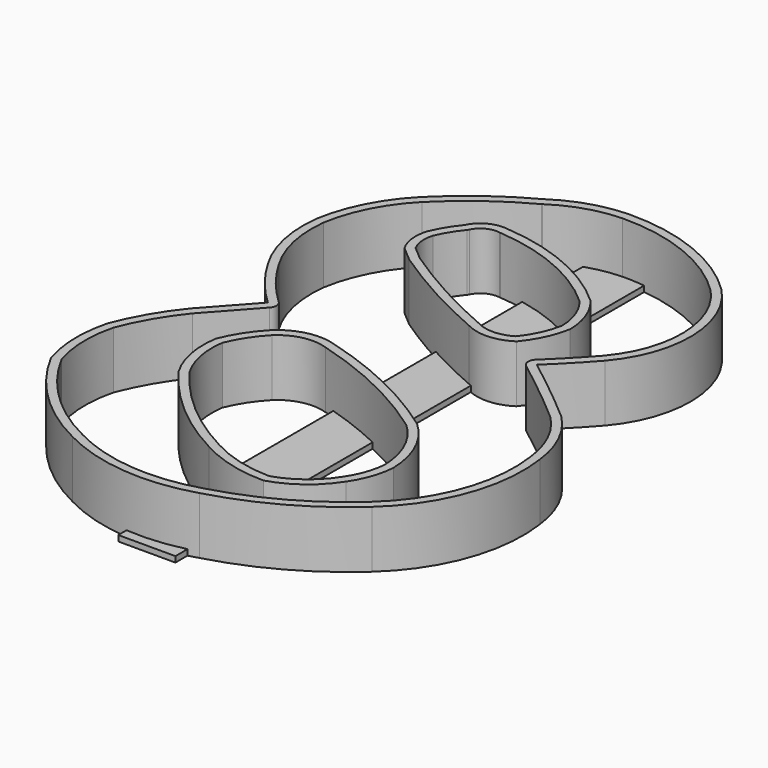
from build123d import *

# Parameters (mm, degrees)
BOX_W         = 10
BOX_H         = 106
BOX_DEPTH     = 1
EXTRUDE_DEPTH = 10


with BuildPart() as cube:
    # Box → Box (new body)
    with BuildSketch(Plane(origin=(-6, -53, 0), x_dir=(1, 0, 0), z_dir=(0, 0, 1))):
        with Locations((5, 53)):
            Rectangle(BOX_W, BOX_H)
    extrude(amount=BOX_DEPTH)


with BuildPart() as fusion:
    # Offset2D → Extrude (new body)
    with BuildSketch(Plane(origin=(-0.426228, -0.837563, 0), x_dir=(0, 1, 0), z_dir=(0, 0, 1))):
        with BuildLine():
            ThreePointArc((42.503525, -24.276272), (49.68176, -13.31089), (52.080118, -0.426228))
            ThreePointArc((52.080118, -0.426228), (51.015355, 5.810333), (48.264258, 11.507689))
            ThreePointArc((48.264258, 11.507689), (43.784533, 18.605601), (38.309512, 24.967395))
            ThreePointArc((38.309512, 24.967395), (31.855149, 29.634938), (24.288431, 32.122818))
            ThreePointArc((24.288431, 32.122818), (16.786489, 31.750925), (9.812264, 28.962088))
            ThreePointArc((9.812264, 28.962088), (5.058836, 25.712847), (0.837563, 21.797045))
            ThreePointArc((0.837563, 21.797045), (-3.138279, 25.368097), (-7.109626, 28.944146))
            ThreePointArc((-7.109626, 28.944146), (-12.158639, 32.433141), (-17.702089, 35.066729))
            ThreePointArc((-17.702089, 35.066729), (-24.054754, 35.79826), (-30.365509, 34.765847))
            ThreePointArc((-30.365509, 34.765847), (-39.957434, 27.594753), (-46.857377, 17.805962))
            ThreePointArc((-46.857377, 17.805962), (-50.317164, 6.059483), (-49.039004, -6.11903))
            ThreePointArc((-49.039004, -6.11903), (-44.500868, -17.280695), (-37.495914, -27.084166))
            ThreePointArc((-37.495914, -27.084166), (-25.986015, -34.811524), (-12.196241, -36.236991))
            ThreePointArc((-12.196241, -36.236991), (-5.835332, -34.400867), (-0.433382, -30.573144))
            ThreePointArc((-0.433382, -30.573144), (4.594591, -24.567416), (9.422656, -18.399834))
            ThreePointArc((9.422656, -18.399834), (12.730523, -21.735725), (16.175134, -24.930222))
            ThreePointArc((16.175134, -24.930222), (29.464589, -29.646272), (42.503525, -24.276272))
        make_face()
        with BuildLine():
            ThreePointArc((50.580413, -0.458151), (48.292873, -12.744264), (41.45398, -23.204232))
            ThreePointArc((41.45398, -23.204232), (29.420995, -28.146891), (17.160495, -23.799162))
            ThreePointArc((17.160495, -23.799162), (13.767835, -20.652193), (10.509658, -17.366187))
            ThreePointArc((10.509658, -17.366187), (9.338332, -16.902206), (8.226493, -17.49474))
            ThreePointArc((8.226493, -17.49474), (3.446379, -23.60181), (-1.530981, -29.549219))
            ThreePointArc((-1.530981, -29.549219), (-6.510376, -33.061053), (-12.365823, -34.746608))
            ThreePointArc((-12.365823, -34.746608), (-12.386537, -34.749111), (-12.407214, -34.751901))
            ThreePointArc((-12.407214, -34.751901), (-25.475718, -33.400993), (-36.383595, -26.077812))
            ThreePointArc((-36.383595, -26.077812), (-36.384661, -26.076636), (-36.385727, -26.075461))
            ThreePointArc((-36.385727, -26.075461), (-43.186869, -16.557226), (-47.592966, -5.720316))
            ThreePointArc((-47.592966, -5.720316), (-47.599325, -5.69793), (-47.606032, -5.675645))
            ThreePointArc((-47.606032, -5.675645), (-48.823362, 5.923269), (-45.528232, 17.11071))
            ThreePointArc((-45.528232, 17.11071), (-45.519523, 17.12762), (-45.511029, 17.144638))
            ThreePointArc((-45.511029, 17.144638), (-38.930567, 26.499036), (-29.789964, 33.373381))
            ThreePointArc((-29.789964, 33.373381), (-23.99136, 34.299325), (-18.157006, 33.634866))
            ThreePointArc((-18.157006, 33.634866), (-12.888907, 31.122689), (-8.086797, 27.805513))
            ThreePointArc((-8.086797, 27.805513), (-4.127663, 24.240509), (-0.164064, 20.680469))
            ThreePointArc((-0.164064, 20.680469), (0.905659, 20.298592), (1.936336, 20.77592))
            ThreePointArc((1.936336, 20.77592), (5.994706, 24.540606), (10.564694, 27.664456))
            ThreePointArc((10.564694, 27.664456), (10.577868, 27.672185), (10.590962, 27.680047))
            ThreePointArc((10.590962, 27.680047), (17.089081, 30.281647), (24.079619, 30.636968))
            ThreePointArc((24.079619, 30.636968), (31.187217, 28.29176), (37.251055, 23.904526))
            ThreePointArc((37.251055, 23.904526), (42.579895, 17.711815), (46.940184, 10.802829))
            ThreePointArc((46.940184, 10.802829), (46.977469, 10.736863), (47.018038, 10.672863))
            ThreePointArc((47.018038, 10.672863), (49.584915, 5.358808), (50.580413, -0.458151))
        make_face(mode=Mode.SUBTRACT)
        with BuildLine():
            ThreePointArc((35.552622, 15.131092), (33.338518, 16.701666), (30.923044, 17.940394))
            ThreePointArc((30.923044, 17.940394), (27.946256, 18.236801), (25.105466, 17.299229))
            ThreePointArc((25.105466, 17.299229), (23.967442, 15.978028), (22.837721, 14.649721))
            ThreePointArc((22.837721, 14.649721), (17.31029, 5.569336), (12.663486, -3.991684))
            ThreePointArc((12.663486, -3.991684), (11.790559, -8.016187), (13.080744, -11.926946))
            ThreePointArc((13.080744, -11.926946), (16.552966, -14.14054), (20.476526, -15.390342))
            ThreePointArc((20.476526, -15.390342), (24.918231, -14.563002), (28.821685, -12.287857))
            ThreePointArc((28.821685, -12.287857), (35.396432, -2.057673), (38.294161, 9.752794))
            ThreePointArc((38.294161, 9.752794), (37.823131, 12.900577), (35.552622, 15.131092))
        make_face()
        with BuildLine():
            ThreePointArc((30.40309, 16.531325), (32.591653, 15.400263), (34.599518, 13.972822))
            ThreePointArc((34.599518, 13.972822), (34.741804, 13.86912), (34.895262, 13.782805))
            ThreePointArc((34.895262, 13.782805), (36.486738, 12.219363), (36.816899, 10.012976))
            ThreePointArc((36.816899, 10.012976), (36.80583, 9.939531), (36.798411, 9.865628))
            ThreePointArc((36.798411, 9.865628), (34.038666, -1.417946), (27.779717, -11.203691))
            ThreePointArc((27.779717, -11.203691), (24.416076, -13.149361), (20.601053, -13.887812))
            ThreePointArc((20.601053, -13.887812), (17.225415, -12.799054), (14.217244, -10.919895))
            ThreePointArc((14.217244, -10.919895), (13.283803, -7.831341), (13.99417, -4.683985))
            ThreePointArc((13.99417, -4.683985), (14.019039, -4.633927), (14.042025, -4.582977))
            ThreePointArc((14.042025, -4.582977), (18.607638, 4.815324), (24.035661, 13.743338))
            ThreePointArc((24.035661, 13.743338), (25.047691, 14.93331), (26.066422, 16.11755))
            ThreePointArc((26.066422, 16.11755), (28.193734, 16.754377), (30.40309, 16.531325))
        make_face(mode=Mode.SUBTRACT)
        with BuildLine():
            ThreePointArc((-5.304279, 16.390724), (-8.42234, 18.854547), (-11.956744, 20.671333))
            ThreePointArc((-11.956744, 20.671333), (-17.494369, 20.574952), (-22.66759, 18.596983))
            ThreePointArc((-22.66759, 18.596983), (-31.070315, 10.860543), (-37.498867, 1.41957))
            ThreePointArc((-37.498867, 1.41957), (-39.844627, -4.40289), (-40.673419, -10.625168))
            ThreePointArc((-40.673419, -10.625168), (-38.087415, -15.735136), (-33.892074, -19.633635))
            ThreePointArc((-33.892074, -19.633635), (-30.444372, -21.380497), (-26.661131, -22.171232))
            ThreePointArc((-26.661131, -22.171232), (-19.969831, -20.610018), (-14.438078, -16.534407))
            ThreePointArc((-14.438078, -16.534407), (-7.758227, -5.295928), (-3.155024, 6.94067))
            ThreePointArc((-3.155024, 6.94067), (-2.90689, 11.966537), (-5.304279, 16.390724))
        make_face()
        with BuildLine():
            ThreePointArc((-12.354501, 19.214576), (-9.175054, 17.555033), (-6.363544, 15.328291))
            ThreePointArc((-6.363544, 15.328291), (-4.366665, 11.621196), (-4.577792, 7.415782))
            ThreePointArc((-4.577792, 7.415782), (-4.589381, 7.379554), (-4.600048, 7.343045))
            ThreePointArc((-4.600048, 7.343045), (-9.092234, -4.608778), (-15.606542, -15.590107))
            ThreePointArc((-15.606542, -15.590107), (-20.599769, -19.248702), (-26.624616, -20.669563))
            ThreePointArc((-26.624616, -20.669563), (-29.983258, -19.952576), (-33.044569, -18.396002))
            ThreePointArc((-33.044569, -18.396002), (-33.062278, -18.38406), (-33.080155, -18.372371))
            ThreePointArc((-33.080155, -18.372371), (-36.821301, -14.922254), (-39.17073, -10.407872))
            ThreePointArc((-39.17073, -10.407872), (-38.364838, -4.675009), (-36.188487, 0.689566))
            ThreePointArc((-36.188487, 0.689566), (-36.179503, 0.705932), (-36.170723, 0.722409))
            ThreePointArc((-36.170723, 0.722409), (-29.95755, 9.85407), (-21.840097, 17.343912))
            ThreePointArc((-21.840097, 17.343912), (-17.257745, 19.092821), (-12.354501, 19.214576))
        make_face(mode=Mode.SUBTRACT)
    extrude(amount=EXTRUDE_DEPTH)

    # Fusion: union Cube
    add(cube.part)


solid = fusion.part
